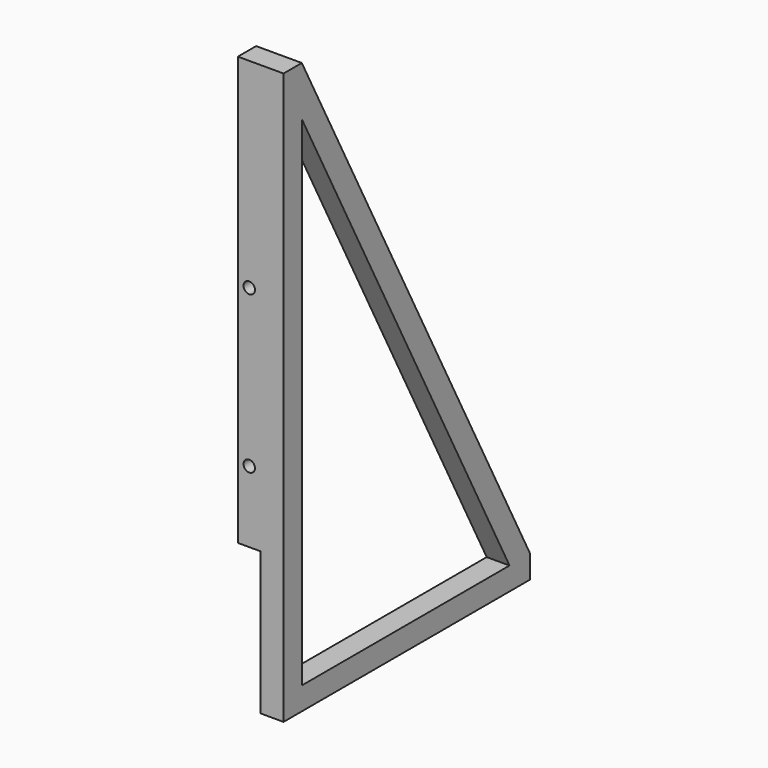
from build123d import *

# Parameters (mm, degrees)
PAD_DEPTH    = 16
SKETCH001_W  = 16
SKETCH001_H  = 300
PAD001_DEPTH = 16
SKETCH002_R  = 4
POCKET_DEPTH = 16.001


with BuildPart() as part:
    # Sketch → Pad (new body)
    with BuildSketch(Plane.YZ):
        Polygon((0, 0), (0, -100), (16, -100), (216, -100), (216, -84), (16, 300), (0, 300), align=None)
        Polygon((16, 265.363049), (197.959921, -84), (16, -84), align=None, mode=Mode.SUBTRACT)
    extrude(amount=PAD_DEPTH)

    # Sketch001 (on Face4 of Pad) → Pad001 (join)
    with BuildSketch(Plane(origin=(0, 0, 0), x_dir=(0, 1, 0), z_dir=(-1, 0, 0))):
        with Locations((8, -150)):
            Rectangle(SKETCH001_W, SKETCH001_H)
    extrude(amount=PAD001_DEPTH)

    # Sketch002 (on Face12 of Pad001) → Pocket (cut, through all)
    with BuildSketch(Plane.ZX.offset(16)):
        with Locations((50, -8)):
            Circle(SKETCH002_R)
        with Locations((160, -8)):
            Circle(SKETCH002_R)
    extrude(amount=-POCKET_DEPTH, mode=Mode.SUBTRACT)


solid = part.part
